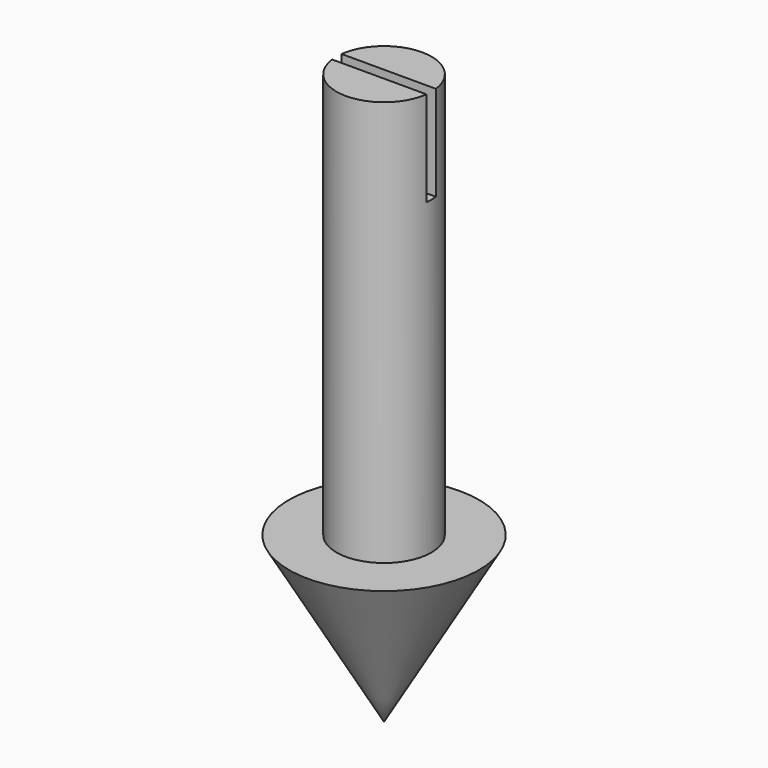
from build123d import *

# Parameters (mm, degrees)
F2_W     = 25.4
F2_H     = 1.5875
F3_DEPTH = 12.7


with BuildPart() as f1:
    # F0 (on Right) → F1 (revolve)
    with BuildSketch(Plane.YZ):
        Polygon((6.35, 76.2), (0, 76.2), (0, 0), (12.7, 21.997045), (6.35, 21.997045), align=None)
    revolve(axis=Axis((0, 0, 38.1), (0, 0, -1)))

    # F2 (on face) → F3 (cut)
    with BuildSketch(Plane.XY.offset(76.2)):
        Rectangle(F2_W, F2_H)
    extrude(amount=-F3_DEPTH, mode=Mode.SUBTRACT)


solid = f1.part
